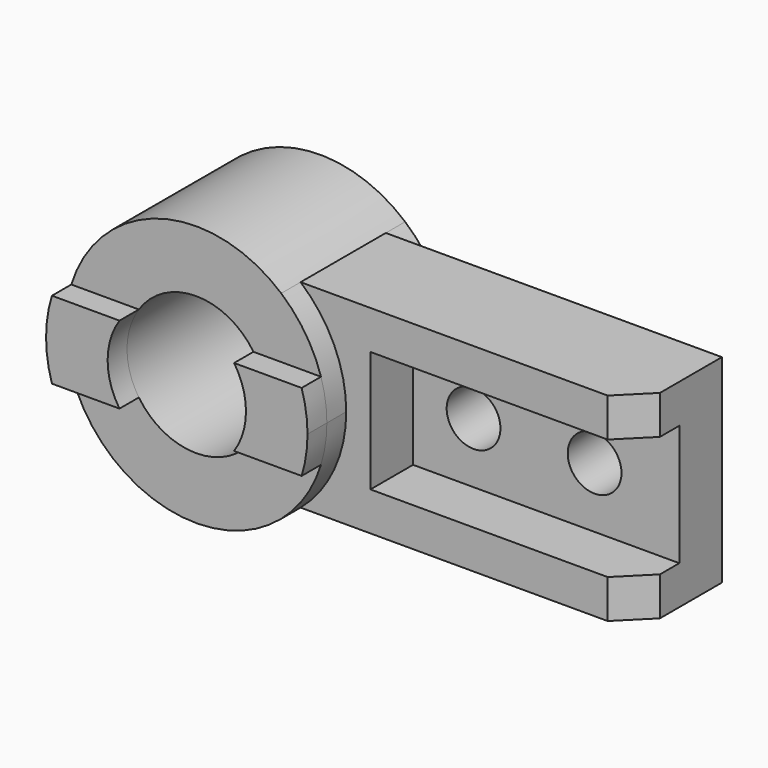
from build123d import *

# Parameters (mm, degrees)
F0_R      = 28.575
F1_DEPTH  = 32
F2_DEPTH  = 22
F4_DEPTH  = 95.001
F5_W      = 12
F5_H      = 50
F5_W_2    = 10
F6_DEPTH  = 110
F8_DEPTH  = 10
F9_R      = 11.1
F10_DEPTH = 32.001


with BuildPart() as f1:
    # F0 (on Front) → F1 (new body, symmetric)
    with BuildSketch(Plane.XZ):
        with BuildLine():
            ThreePointArc((35.142567, -41), (49.05965, -22.564368), (54, 0))
            ThreePointArc((54, 0), (49.05965, 22.564368), (35.142567, 41))
            ThreePointArc((35.142567, 41), (-54, 0), (35.142567, -41))
        make_face()
        Circle(F0_R, mode=Mode.SUBTRACT)
    extrude(amount=F1_DEPTH, both=True)

    # F0 (on Front) → F2 (join, symmetric)
    with BuildSketch(Plane.XZ):
        with BuildLine():
            ThreePointArc((35.142567, 41), (49.05965, 22.564368), (54, 0))
            ThreePointArc((54, 0), (49.05965, -22.564368), (35.142567, -41))
            Line((35.142567, -41), (174, -41))
            Line((174, -41), (174, 41))
            Line((174, 41), (35.142567, 41))
        make_face()
    extrude(amount=F2_DEPTH, both=True)

    # F3 (on face) → F4 (cut, through all)
    with BuildSketch(Plane.XY.offset(41)):
        Polygon((174, -10), (162, -22), (174, -22), align=None)
    extrude(amount=-F4_DEPTH, mode=Mode.SUBTRACT)

    # F5 (on face) → F6 (cut)
    with BuildSketch(Plane.YZ.offset(174)):
        with Locations((-16, 0)):
            Rectangle(F5_W, F5_H)
        with Locations((-5, 0)):
            Rectangle(F5_W_2, F5_H)
    extrude(amount=-F6_DEPTH, mode=Mode.SUBTRACT)

    # F7 (on face) → F8 (join)
    with BuildSketch(Plane.XZ.offset(32)):
        with BuildLine():
            Line((-23.675528, 16), (-51.575188, 16))
            ThreePointArc((-51.575188, 16), (-54, 0), (-51.575188, -16))
            Line((-51.575188, -16), (-23.675528, -16))
            ThreePointArc((-23.675528, -16), (-28.575, 0), (-23.675528, 16))
        make_face()
        with BuildLine():
            Line((51.575188, 16), (23.675528, 16))
            ThreePointArc((23.675528, 16), (27.322691, 8.366672), (28.575, 0))
            ThreePointArc((28.575, 0), (27.322691, -8.366672), (23.675528, -16))
            Line((23.675528, -16), (51.575188, -16))
            ThreePointArc((51.575188, -16), (53.390356, -8.091349), (54, 0))
            ThreePointArc((54, 0), (53.390356, 8.091349), (51.575188, 16))
        make_face()
    extrude(amount=F8_DEPTH)

    # F9 (on face) → F10 (cut, through all)
    with BuildSketch(Plane.XZ):
        with Locations((89, 0)):
            Circle(F9_R)
        with Locations((139, 0)):
            Circle(F9_R)
    extrude(amount=-F10_DEPTH, mode=Mode.SUBTRACT)


solid = f1.part
